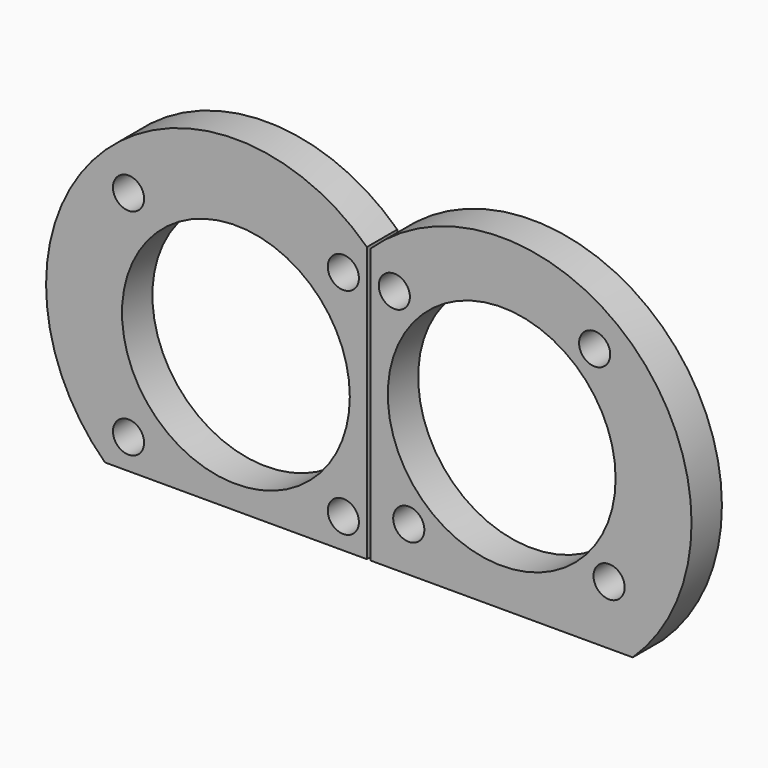
from build123d import *

# Parameters (mm, degrees)
F0_R     = 4.1
F0_R_2   = 30
F1_DEPTH = 10


with BuildPart() as f1:
    # F0 (on Front) → F1 (new body)
    with BuildSketch(Plane.XZ):
        with BuildLine():
            Line((-0.5, -36.190468), (-0.5, 36.190468))
            ThreePointArc((-0.5, 36.190468), (-71.190468, 34.5), (-69.5, -36.190468))
            Line((-69.5, -36.190468), (-0.5, -36.190468))
        make_face()
        with Locations((-63.284271, -28.284271)):
            Circle(F0_R, mode=Mode.SUBTRACT)
        with Locations((-6.715729, -28.284271)):
            Circle(F0_R, mode=Mode.SUBTRACT)
        with Locations((-35, 0)):
            Circle(F0_R_2, mode=Mode.SUBTRACT)
        with Locations((-63.284271, 28.284271)):
            Circle(F0_R, mode=Mode.SUBTRACT)
        with Locations((-6.715729, 28.284271)):
            Circle(F0_R, mode=Mode.SUBTRACT)
        with BuildLine():
            Line((0.5, -36.190468), (69.5, -36.190468))
            ThreePointArc((69.5, -36.190468), (71.190468, 34.5), (0.5, 36.190468))
            Line((0.5, 36.190468), (0.5, -36.190468))
        make_face()
        with Locations((10.52526, -24.47474)):
            Circle(F0_R, mode=Mode.SUBTRACT)
        with Locations((63.284271, -20.665208)):
            Circle(F0_R, mode=Mode.SUBTRACT)
        with Locations((35, 3.809532)):
            Circle(F0_R_2, mode=Mode.SUBTRACT)
        with Locations((6.715729, 28.284271)):
            Circle(F0_R, mode=Mode.SUBTRACT)
        with Locations((59.47474, 32.093803)):
            Circle(F0_R, mode=Mode.SUBTRACT)
    extrude(amount=F1_DEPTH)


solid = f1.part
